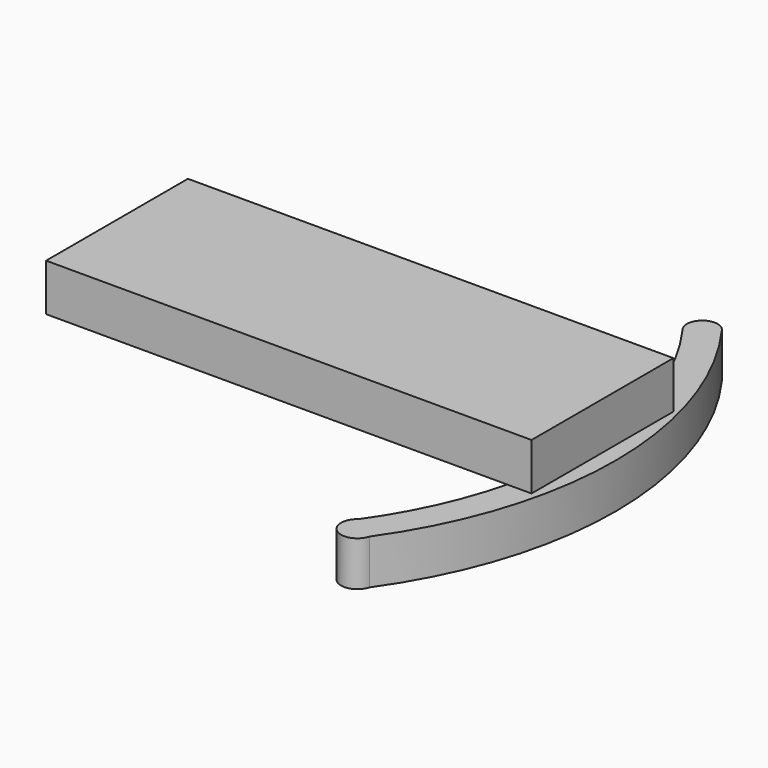
from build123d import *

# Parameters (mm, degrees)
F1_DEPTH = 4.826
F2_W     = 52.321808
F2_H     = 19.11006
F3_DEPTH = 5.08


with BuildPart() as f1:
    # F0 (on Top) → F1 (new body)
    with BuildSketch(Plane.XY):
        with BuildLine():
            ThreePointArc((0.309846, -17.046128), (0.304795, -19.917111), (3.007896, -18.949738))
            ThreePointArc((3.007896, -18.949738), (10.527048, 5.011262), (2.707107, 28.875789))
            ThreePointArc((2.707107, 28.875789), (0.33648, 29.333723), (0.033214, 26.938393))
            ThreePointArc((0.033214, 26.938393), (7.225113, 4.990495), (0.309846, -17.046128))
        make_face()
    extrude(amount=-F1_DEPTH)

    # F2 (on Top) → F3 (join)
    with BuildSketch(Plane.XY):
        with Locations((-17.407018, 5.242003)):
            Rectangle(F2_W, F2_H)
    extrude(amount=F3_DEPTH)


solid = f1.part
